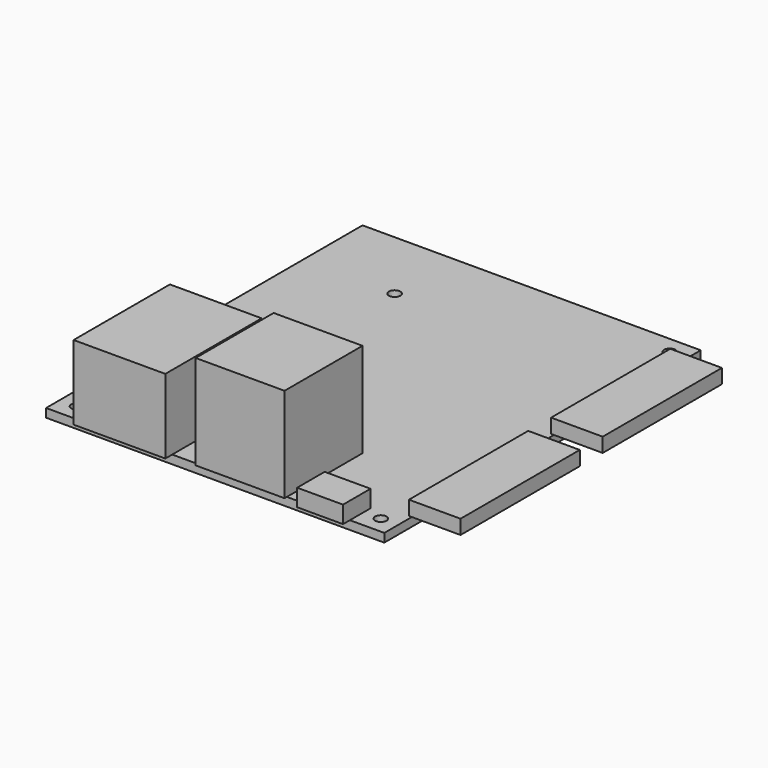
from build123d import *

# Parameters (mm, degrees)
F0_W     = 59
F0_H     = 69
F0_R     = 1
F1_DEPTH = 1.5
F2_W     = 8
F2_H     = 1.5
F2_H_2   = 4.5
F3_DEPTH = 3
F2_W_2   = 15.5
F2_H_3   = 16.5
F2_H_4   = 0.5
F4_DEPTH = 16.5
F2_W_3   = 16
F2_H_5   = 19.5
F5_DEPTH = 13
F2_W_4   = 0.5
F2_H_6   = 26
F2_W_5   = 8.5
F6_DEPTH = 2.5


with BuildPart() as f1:
    # F0 (on Top) → F1 (new body)
    with BuildSketch(Plane.XY):
        Rectangle(F0_W, F0_H)
        with Locations((-26.5, -31.5)):
            Circle(F0_R, mode=Mode.SUBTRACT)
        with Locations((26.5, -31.5)):
            Circle(F0_R, mode=Mode.SUBTRACT)
        with Locations((-13.5, 21.5)):
            Circle(F0_R, mode=Mode.SUBTRACT)
        with Locations((26.5, 31.5)):
            Circle(F0_R, mode=Mode.SUBTRACT)
    extrude(amount=F1_DEPTH)

    # F2 (on face) → F3 (join)
    with BuildSketch(Plane.XY.offset(1.5)):
        with Locations((19.5, -35.25)):
            Rectangle(F2_W, F2_H)
        with Locations((19.5, -32.25)):
            Rectangle(F2_W, F2_H_2)
    extrude(amount=F3_DEPTH)

    # F2 (on face) → F4 (join)
    with BuildSketch(Plane.XY.offset(1.5)):
        with Locations((4.75, -26.25)):
            Rectangle(F2_W_2, F2_H_3)
        with Locations((4.75, -34.75)):
            Rectangle(F2_W_2, F2_H_4)
    extrude(amount=F4_DEPTH)

    # F2 (on face) → F5 (join)
    with BuildSketch(Plane.XY.offset(1.5)):
        with Locations((-15.5, -24.75)):
            Rectangle(F2_W_3, F2_H_5)
        with Locations((-15.5, -35.25)):
            Rectangle(F2_W_3, F2_H)
    extrude(amount=F5_DEPTH)

    # F2 (on face) → F6 (join)
    with BuildSketch(Plane.XY.offset(1.5)):
        with Locations((29.25, 15.5)):
            Rectangle(F2_W_4, F2_H_6)
        with Locations((33.75, 15.5)):
            Rectangle(F2_W_5, F2_H_6)
        with Locations((29.25, -15.5)):
            Rectangle(F2_W_4, F2_H_6)
        with Locations((33.75, -15.5)):
            Rectangle(F2_W_5, F2_H_6)
    extrude(amount=F6_DEPTH)


solid = f1.part
